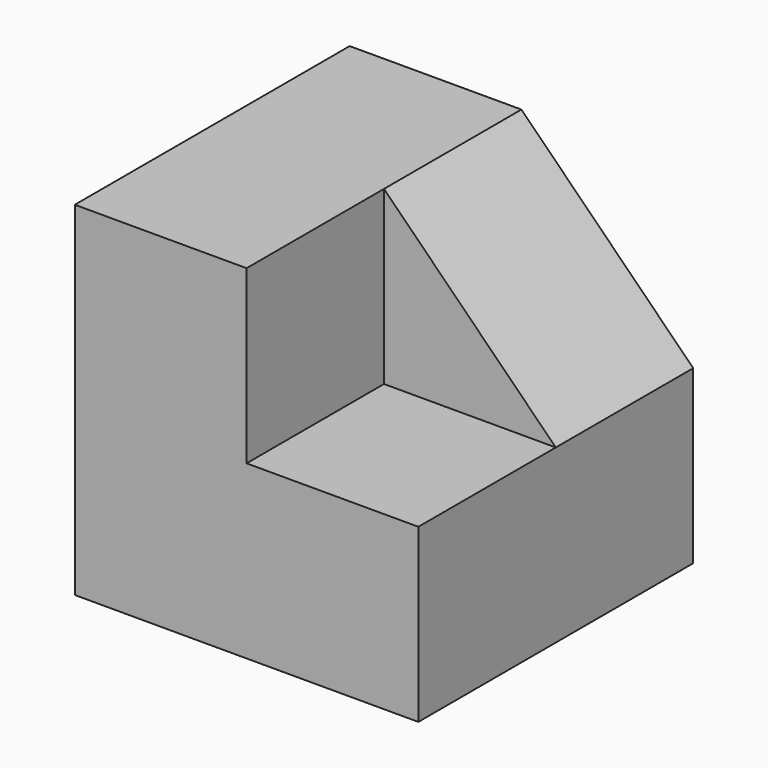
from build123d import *

# Parameters (mm, degrees)
F1_DEPTH = 100
F3_DEPTH = 50


with BuildPart() as f1:
    # F0 (on Front) → F1 (new body)
    with BuildSketch(Plane.XZ):
        Polygon((-50, 100), (-100, 100), (-100, 0), (0, 0), (0, 50), align=None)
    extrude(amount=F1_DEPTH)

    # F2 (on face) → F3 (cut)
    with BuildSketch(Plane.XZ.offset(100)):
        Polygon((0, 50), (-50, 100), (-50, 50), align=None)
    extrude(amount=-F3_DEPTH, mode=Mode.SUBTRACT)


solid = f1.part
